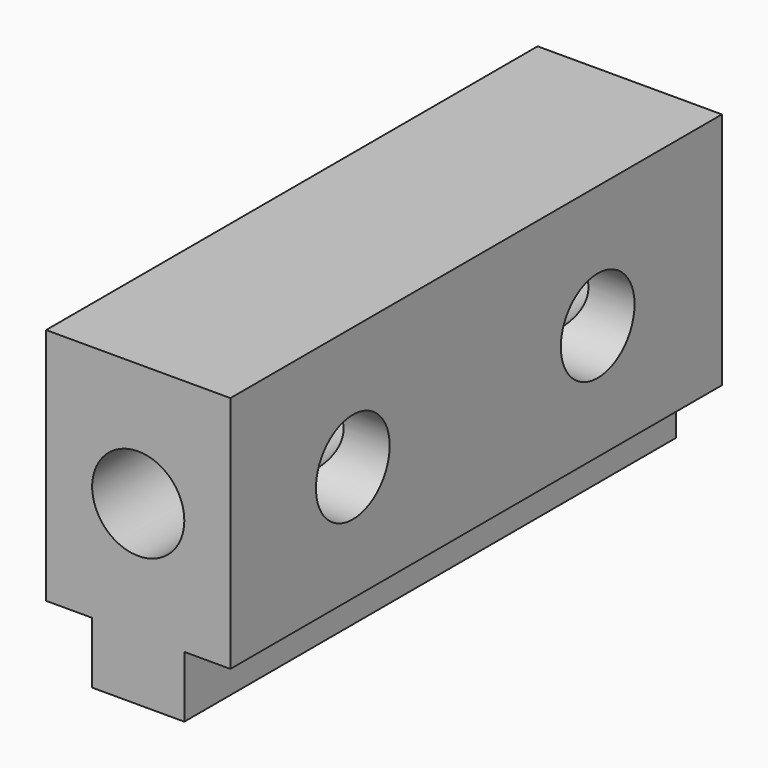
from build123d import *

# Parameters (mm, degrees)
F0_R          = 9.525
F1_DEPTH      = 127
F2_R          = 9.525
F3_DEPTH      = 38.1
F3_DEPTH_BACK = 38.1


with BuildPart() as f1:
    # F0 (on Front) → F1 (new body)
    with BuildSketch(Plane.XZ):
        Polygon((-9.525, -23.880164), (-9.525, -36.580164), (9.525, -36.580164), (9.525, -23.880164), (19.05, -23.880164), (19.05, 0), (19.05, 25.4), (0, 25.4), (-19.05, 25.4), (-19.05, 0), (-19.05, -23.880164), align=None)
        Circle(F0_R, mode=Mode.SUBTRACT)
    extrude(amount=F1_DEPTH)

    # F2 (on Right) → F3 (cut, two sides)
    with BuildSketch(Plane.YZ) as f3_sk:
        with Locations((-32.103937, 0)):
            Circle(F2_R)
        with Locations((-95.37492, 0)):
            Circle(F2_R)
    extrude(amount=F3_DEPTH, mode=Mode.SUBTRACT)
    extrude(f3_sk.sketch, amount=-F3_DEPTH_BACK, mode=Mode.SUBTRACT)


solid = f1.part
